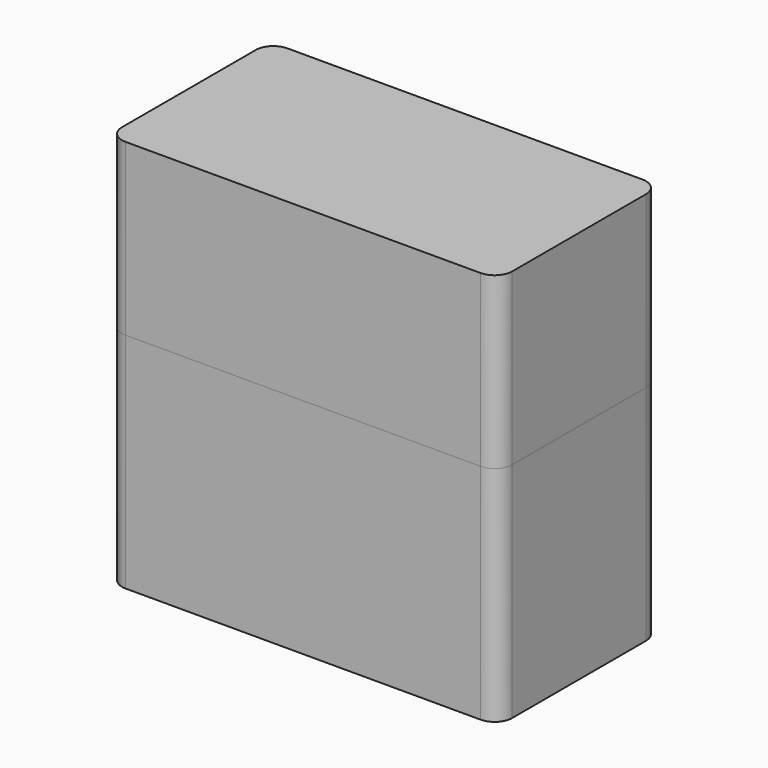
from build123d import *

# Parameters (mm, degrees)
F1_DEPTH      = 3
F2_W          = 5
F2_H          = 5
F3_DEPTH      = 5
F4_W          = 8
F4_H          = 13
F5_DEPTH      = 40
F7_DEPTH      = 10
F9_DEPTH      = 19
F9_DEPTH_BACK = 10
F10_W         = 60.5
F10_H         = 28.5
F11_DEPTH     = 26
F13_DEPTH     = 10.5


with BuildPart() as f1:
    # F0 (on Top) → F1 (new body)
    with BuildSketch(Plane.XY):
        with BuildLine():
            ThreePointArc((0, 3), (0.8786796564, 0.8786796564), (3, 0))
            Line((3, 0), (63.5, 0))
            ThreePointArc((63.5, 0), (65.6213203436, 0.8786796564), (66.5, 3))
            Line((66.5, 3), (66.5, 31.5))
            ThreePointArc((66.5, 31.5), (65.6213203436, 33.6213203436), (63.5, 34.5))
            Line((63.5, 34.5), (3, 34.5))
            ThreePointArc((3, 34.5), (0.8786796564, 33.6213203436), (0, 31.5))
            Line((0, 31.5), (0, 3))
        make_face()
    extrude(amount=F1_DEPTH)

    # F2 (on face) → F3 (join)
    with BuildSketch(Plane.XY.offset(3)):
        with BuildLine():
            Line((3, 0), (63.5, 0))
            ThreePointArc((63.5, 0), (65.6213203436, 0.8786796564), (66.5, 3))
            Line((66.5, 3), (66.5, 31.5))
            ThreePointArc((66.5, 31.5), (65.6213203436, 33.6213203436), (63.5, 34.5))
            Line((63.5, 34.5), (3, 34.5))
            ThreePointArc((3, 34.5), (0.8786796564, 33.6213203436), (0, 31.5))
            Line((0, 31.5), (0, 3))
            ThreePointArc((0, 3), (0.8786796564, 0.8786796564), (3, 0))
        make_face()
        with Locations((7, 9.5)):
            Rectangle(F2_W, F2_H, mode=Mode.SUBTRACT)
        with Locations((17.5, 9.5)):
            Rectangle(F2_W, F2_H, mode=Mode.SUBTRACT)
        with Locations((28, 9.5)):
            Rectangle(F2_W, F2_H, mode=Mode.SUBTRACT)
        with Locations((38.5, 9.5)):
            Rectangle(F2_W, F2_H, mode=Mode.SUBTRACT)
        with Locations((49, 9.5)):
            Rectangle(F2_W, F2_H, mode=Mode.SUBTRACT)
        with Locations((59.5, 9.5)):
            Rectangle(F2_W, F2_H, mode=Mode.SUBTRACT)
        with Locations((7, 25)):
            Rectangle(F2_W, F2_H, mode=Mode.SUBTRACT)
        with Locations((17.5, 25)):
            Rectangle(F2_W, F2_H, mode=Mode.SUBTRACT)
        with Locations((28, 25)):
            Rectangle(F2_W, F2_H, mode=Mode.SUBTRACT)
        with Locations((38.5, 25)):
            Rectangle(F2_W, F2_H, mode=Mode.SUBTRACT)
        with Locations((49, 25)):
            Rectangle(F2_W, F2_H, mode=Mode.SUBTRACT)
        with Locations((59.5, 25)):
            Rectangle(F2_W, F2_H, mode=Mode.SUBTRACT)
    extrude(amount=F3_DEPTH)

    # F4 (on face) → F5 (join)
    with BuildSketch(Plane.XY.offset(8)):
        with BuildLine():
            Line((3, 0), (63.5, 0))
            ThreePointArc((63.5, 0), (65.6213203436, 0.8786796564), (66.5, 3))
            Line((66.5, 3), (66.5, 31.5))
            ThreePointArc((66.5, 31.5), (65.6213203436, 33.6213203436), (63.5, 34.5))
            Line((63.5, 34.5), (3, 34.5))
            ThreePointArc((3, 34.5), (0.8786796564, 33.6213203436), (0, 31.5))
            Line((0, 31.5), (0, 3))
            ThreePointArc((0, 3), (0.8786796564, 0.8786796564), (3, 0))
        make_face()
        with Locations((7, 9.5)):
            Rectangle(F4_W, F4_H, mode=Mode.SUBTRACT)
        with Locations((17.5, 9.5)):
            Rectangle(F4_W, F4_H, mode=Mode.SUBTRACT)
        with Locations((28, 9.5)):
            Rectangle(F4_W, F4_H, mode=Mode.SUBTRACT)
        with Locations((38.5, 9.5)):
            Rectangle(F4_W, F4_H, mode=Mode.SUBTRACT)
        with Locations((49, 9.5)):
            Rectangle(F4_W, F4_H, mode=Mode.SUBTRACT)
        with Locations((59.5, 9.5)):
            Rectangle(F4_W, F4_H, mode=Mode.SUBTRACT)
        with Locations((7, 25)):
            Rectangle(F4_W, F4_H, mode=Mode.SUBTRACT)
        with Locations((17.5, 25)):
            Rectangle(F4_W, F4_H, mode=Mode.SUBTRACT)
        with Locations((28, 25)):
            Rectangle(F4_W, F4_H, mode=Mode.SUBTRACT)
        with Locations((38.5, 25)):
            Rectangle(F4_W, F4_H, mode=Mode.SUBTRACT)
        with Locations((49, 25)):
            Rectangle(F4_W, F4_H, mode=Mode.SUBTRACT)
        with Locations((59.5, 25)):
            Rectangle(F4_W, F4_H, mode=Mode.SUBTRACT)
    extrude(amount=F5_DEPTH)

    # F6 (on face) → F7 (cut)
    with BuildSketch(Plane.XY.offset(48)):
        with BuildLine():
            Line((63.5, 34.5), (3, 34.5))
            ThreePointArc((3, 34.5), (0.8786796564, 33.6213203436), (0, 31.5))
            Line((0, 31.5), (0, 3))
            ThreePointArc((0, 3), (0.8786796564, 0.8786796564), (3, 0))
            Line((3, 0), (63.5, 0))
            ThreePointArc((63.5, 0), (65.6213203436, 0.8786796564), (66.5, 3))
            Line((66.5, 3), (66.5, 31.5))
            ThreePointArc((66.5, 31.5), (65.6213203436, 33.6213203436), (63.5, 34.5))
        make_face()
        with BuildLine():
            ThreePointArc((1.6, 31.5), (2.0100505063, 32.4899494937), (3, 32.9))
            Line((3, 32.9), (63.5, 32.9))
            ThreePointArc((63.5, 32.9), (64.4899494937, 32.4899494937), (64.9, 31.5))
            Line((64.9, 31.5), (64.9, 3))
            ThreePointArc((64.9, 3), (64.4899494937, 2.0100505063), (63.5, 1.6))
            Line((63.5, 1.6), (3, 1.6))
            ThreePointArc((3, 1.6), (2.0100505063, 2.0100505063), (1.6, 3))
            Line((1.6, 3), (1.6, 31.5))
        make_face(mode=Mode.SUBTRACT)
    extrude(amount=-F7_DEPTH, mode=Mode.SUBTRACT)


with BuildPart() as f9:
    # F8 (on face) → F9 (new body, two sides)
    with BuildSketch(Plane.XY.offset(48)) as f9_sk:
        with BuildLine():
            ThreePointArc((0, 3), (0.8786796564, 0.8786796564), (3, 0))
            Line((3, 0), (63.5, 0))
            ThreePointArc((63.5, 0), (65.6213203436, 0.8786796564), (66.5, 3))
            Line((66.5, 3), (66.5, 31.5))
            ThreePointArc((66.5, 31.5), (65.6213203436, 33.6213203436), (63.5, 34.5))
            Line((63.5, 34.5), (3, 34.5))
            ThreePointArc((3, 34.5), (0.8786796564, 33.6213203436), (0, 31.5))
            Line((0, 31.5), (0, 3))
        make_face()
    extrude(amount=F9_DEPTH)
    extrude(f9_sk.sketch, amount=-F9_DEPTH_BACK)

    # F10 (on face) → F11 (cut)
    with BuildSketch(Plane(origin=(0, 0, 38), x_dir=(1, 0, 0), z_dir=(0, 0, -1))):
        with Locations((33.25, -17.25)):
            Rectangle(F10_W, F10_H)
    extrude(amount=-F11_DEPTH, mode=Mode.SUBTRACT)

    # F12 (on face) → F13 (cut)
    with BuildSketch(Plane(origin=(0, 0, 38), x_dir=(1, 0, 0), z_dir=(0, 0, -1))):
        with BuildLine():
            ThreePointArc((3, -1.5), (1.9393398282, -1.9393398282), (1.5, -3))
            Line((1.5, -3), (1.5, -31.5))
            ThreePointArc((1.5, -31.5), (1.9393398282, -32.5606601718), (3, -33))
            Line((3, -33), (63.5, -33))
            ThreePointArc((63.5, -33), (64.5606601718, -32.5606601718), (65, -31.5))
            Line((65, -31.5), (65, -3))
            ThreePointArc((65, -3), (64.5606601718, -1.9393398282), (63.5, -1.5))
            Line((63.5, -1.5), (3, -1.5))
        make_face()
    extrude(amount=-F13_DEPTH, mode=Mode.SUBTRACT)


solid = Compound([f1.part, f9.part])
